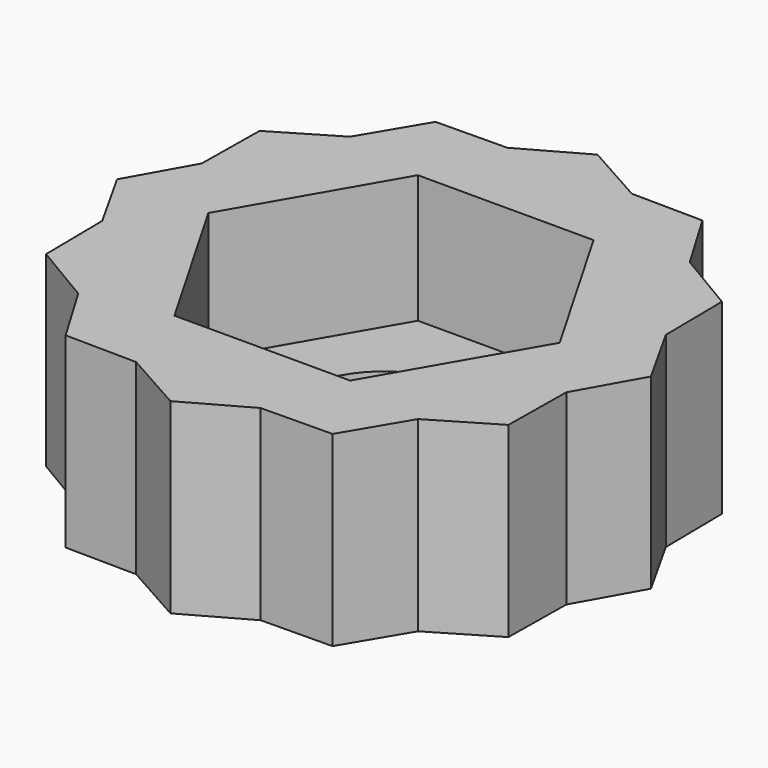
from build123d import *

# Parameters (mm, degrees)
F1_DEPTH = 3.5
F3_DEPTH = 2.4
F4_D     = 3.3


with BuildPart() as f1:
    # F0 (on Top) → F1 (new body)
    with BuildSketch(Plane.XY):
        Polygon((0, 5), (-1.164685703, 4.3466662183), (-2.5, 4.3301270189), (-3.1819805153, 3.1819805153), (-4.3301270189, 2.5), (-4.3466662183, 1.164685703), (-5, 0), (-4.3466662183, -1.164685703), (-4.3301270189, -2.5), (-3.1819805153, -3.1819805153), (-2.5, -4.3301270189), (-1.164685703, -4.3466662183), (0, -5), (1.164685703, -4.3466662183), (2.5, -4.3301270189), (3.1819805153, -3.1819805153), (4.3301270189, -2.5), (4.3466662183, -1.164685703), (5, 0), (4.3466662183, 1.164685703), (4.3301270189, 2.5), (3.1819805153, 3.1819805153), (2.5, 4.3301270189), (1.164685703, 4.3466662183), align=None)
    extrude(amount=F1_DEPTH)

    # F2 (on face) → F3 (cut)
    with BuildSketch(Plane.XY.offset(3.5)):
        Polygon((-1.6454482672, -2.85), (1.6454482672, -2.85), (3.2908965344, 0), (1.6454482672, 2.85), (-1.6454482672, 2.85), (-3.2908965344, 0), align=None)
    extrude(amount=-F3_DEPTH, mode=Mode.SUBTRACT)

    # F4 (through all)
    with Locations(Plane(origin=(0, 0, 0), x_dir=(1, 0, 0), z_dir=(0, 0, -1))):
        with Locations((0, 0)):
            Hole(F4_D / 2)


solid = f1.part
